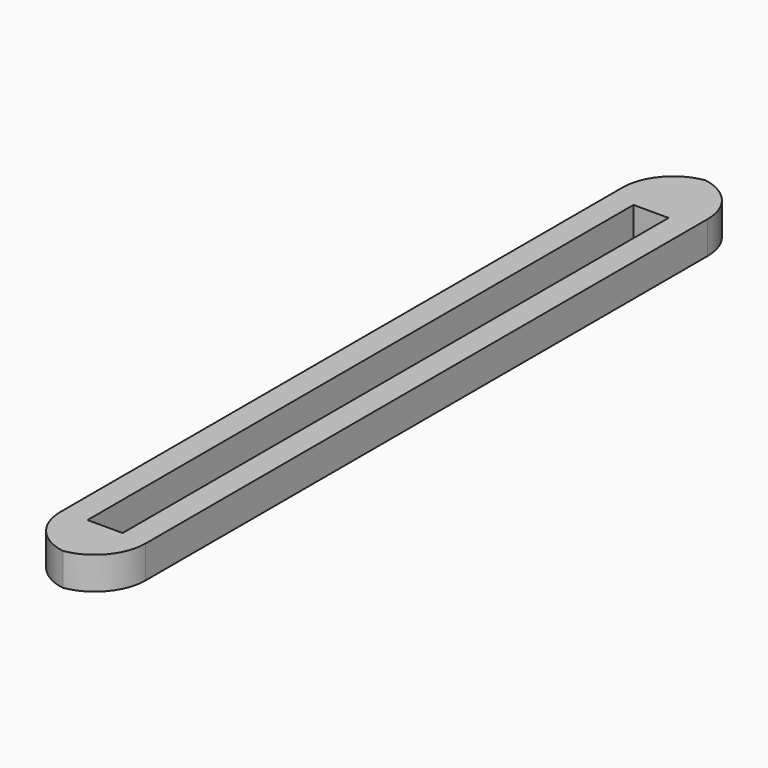
from build123d import *

# Parameters (mm, degrees)
F1_DEPTH = 3.24


with BuildPart() as f1:
    # F0 (on Top) → F1 (new body)
    with BuildSketch(Plane.XY):
        Polygon((4.25, -35), (4.25, 35), (-4.25, 35), (-4.25, -35), (0, -35), align=None)
        Polygon((1.75, -34.738846), (0, -34.738846), (-1.75, -34.738846), (-1.75, 33.261154), (0, 33.261154), (1.75, 33.261154), align=None, mode=Mode.SUBTRACT)
        with BuildLine():
            Line((-4.25, 35), (4.25, 35))
            ThreePointArc((4.25, 35), (3.043943, 38.281101), (0, 40))
            ThreePointArc((0, 40), (-3.043943, 38.281101), (-4.25, 35))
        make_face()
        with BuildLine():
            ThreePointArc((0, -40), (3.043943, -38.281101), (4.25, -35))
            Line((4.25, -35), (0, -35))
            Line((0, -35), (-4.25, -35))
            ThreePointArc((-4.25, -35), (-3.043943, -38.281101), (0, -40))
        make_face()
    extrude(amount=F1_DEPTH)


solid = f1.part
